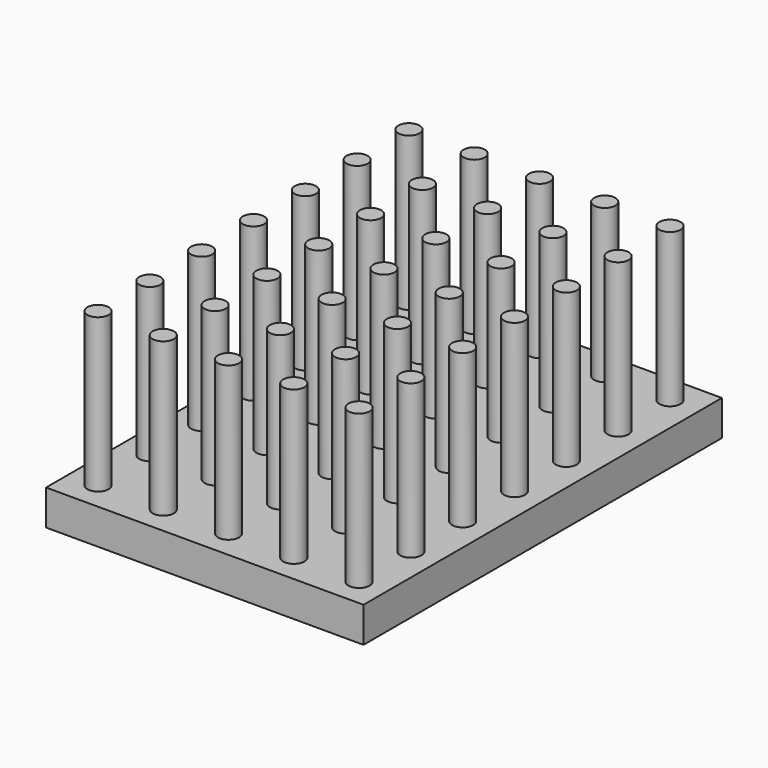
from build123d import *

# Parameters (mm, degrees)
F0_W     = 18
F0_H     = 25.4
F0_R     = 0.6
F1_DEPTH = 2
F2_DEPTH = 10.7


with BuildPart() as f1:
    # F0 (on Top) → F1 (new body)
    with BuildSketch(Plane.XY):
        Rectangle(F0_W, F0_H)
        with Locations((-7.335386, -11.099812)):
            Circle(F0_R, mode=Mode.SUBTRACT)
        with Locations((-7.356924, -7.399875)):
            Circle(F0_R, mode=Mode.SUBTRACT)
        with Locations((-3.635386, -11.099812)):
            Circle(F0_R, mode=Mode.SUBTRACT)
        with Locations((-3.656924, -7.399875)):
            Circle(F0_R, mode=Mode.SUBTRACT)
        with Locations((-7.378462, -3.699937)):
            Circle(F0_R, mode=Mode.SUBTRACT)
        with Locations((-7.4, 0)):
            Circle(F0_R, mode=Mode.SUBTRACT)
        with Locations((-3.678462, -3.699937)):
            Circle(F0_R, mode=Mode.SUBTRACT)
        with Locations((-3.7, 0)):
            Circle(F0_R, mode=Mode.SUBTRACT)
        with Locations((0.064614, -11.099812)):
            Circle(F0_R, mode=Mode.SUBTRACT)
        with Locations((3.764614, -11.099812)):
            Circle(F0_R, mode=Mode.SUBTRACT)
        with Locations((0.043076, -7.399875)):
            Circle(F0_R, mode=Mode.SUBTRACT)
        with Locations((3.743076, -7.399875)):
            Circle(F0_R, mode=Mode.SUBTRACT)
        with Locations((7.464614, -11.099812)):
            Circle(F0_R, mode=Mode.SUBTRACT)
        with Locations((7.443076, -7.399875)):
            Circle(F0_R, mode=Mode.SUBTRACT)
        with Locations((0.021538, -3.699937)):
            Circle(F0_R, mode=Mode.SUBTRACT)
        with Locations((3.721538, -3.699937)):
            Circle(F0_R, mode=Mode.SUBTRACT)
        Circle(F0_R, mode=Mode.SUBTRACT)
        with Locations((3.7, 0)):
            Circle(F0_R, mode=Mode.SUBTRACT)
        with Locations((7.421538, -3.699937)):
            Circle(F0_R, mode=Mode.SUBTRACT)
        with Locations((7.4, 0)):
            Circle(F0_R, mode=Mode.SUBTRACT)
        with Locations((-7.421538, 3.699937)):
            Circle(F0_R, mode=Mode.SUBTRACT)
        with Locations((-3.721538, 3.699937)):
            Circle(F0_R, mode=Mode.SUBTRACT)
        with Locations((-0.021538, 3.699937)):
            Circle(F0_R, mode=Mode.SUBTRACT)
        with Locations((-7.443076, 7.399875)):
            Circle(F0_R, mode=Mode.SUBTRACT)
        with Locations((-7.464614, 11.099812)):
            Circle(F0_R, mode=Mode.SUBTRACT)
        with Locations((-3.743076, 7.399875)):
            Circle(F0_R, mode=Mode.SUBTRACT)
        with Locations((-0.043076, 7.399875)):
            Circle(F0_R, mode=Mode.SUBTRACT)
        with Locations((-3.764614, 11.099812)):
            Circle(F0_R, mode=Mode.SUBTRACT)
        with Locations((-0.064614, 11.099812)):
            Circle(F0_R, mode=Mode.SUBTRACT)
        with Locations((3.678462, 3.699937)):
            Circle(F0_R, mode=Mode.SUBTRACT)
        with Locations((7.378462, 3.699937)):
            Circle(F0_R, mode=Mode.SUBTRACT)
        with Locations((3.656924, 7.399875)):
            Circle(F0_R, mode=Mode.SUBTRACT)
        with Locations((3.635386, 11.099812)):
            Circle(F0_R, mode=Mode.SUBTRACT)
        with Locations((7.356924, 7.399875)):
            Circle(F0_R, mode=Mode.SUBTRACT)
        with Locations((7.335386, 11.099812)):
            Circle(F0_R, mode=Mode.SUBTRACT)
    extrude(amount=F1_DEPTH)

    # F0 (on Top) → F2 (join)
    with BuildSketch(Plane.XY):
        with Locations((3.7, 0)):
            Circle(F0_R)
        with Locations((-0.064614, 11.099812)):
            Circle(F0_R)
        with Locations((7.443076, -7.399875)):
            Circle(F0_R)
        with Locations((-7.356924, -7.399875)):
            Circle(F0_R)
        with Locations((-3.656924, -7.399875)):
            Circle(F0_R)
        with Locations((7.464614, -11.099812)):
            Circle(F0_R)
        with Locations((-7.443076, 7.399875)):
            Circle(F0_R)
        with Locations((7.335386, 11.099812)):
            Circle(F0_R)
        with Locations((0.064614, -11.099812)):
            Circle(F0_R)
        with Locations((-3.764614, 11.099812)):
            Circle(F0_R)
        with Locations((-3.635386, -11.099812)):
            Circle(F0_R)
        with Locations((3.635386, 11.099812)):
            Circle(F0_R)
        Circle(F0_R)
        with Locations((0.043076, -7.399875)):
            Circle(F0_R)
        with Locations((7.356924, 7.399875)):
            Circle(F0_R)
        with Locations((-3.678462, -3.699937)):
            Circle(F0_R)
        with Locations((7.421538, -3.699937)):
            Circle(F0_R)
        with Locations((7.378462, 3.699937)):
            Circle(F0_R)
        with Locations((-7.4, 0)):
            Circle(F0_R)
        with Locations((-7.421538, 3.699937)):
            Circle(F0_R)
        with Locations((3.743076, -7.399875)):
            Circle(F0_R)
        with Locations((0.021538, -3.699937)):
            Circle(F0_R)
        with Locations((-0.021538, 3.699937)):
            Circle(F0_R)
        with Locations((-3.721538, 3.699937)):
            Circle(F0_R)
        with Locations((3.721538, -3.699937)):
            Circle(F0_R)
        with Locations((3.678462, 3.699937)):
            Circle(F0_R)
        with Locations((7.4, 0)):
            Circle(F0_R)
        with Locations((-7.378462, -3.699937)):
            Circle(F0_R)
        with Locations((-0.043076, 7.399875)):
            Circle(F0_R)
        with Locations((-7.464614, 11.099812)):
            Circle(F0_R)
        with Locations((3.656924, 7.399875)):
            Circle(F0_R)
        with Locations((-7.335386, -11.099812)):
            Circle(F0_R)
        with Locations((-3.7, 0)):
            Circle(F0_R)
        with Locations((-3.743076, 7.399875)):
            Circle(F0_R)
        with Locations((3.764614, -11.099812)):
            Circle(F0_R)
    extrude(amount=F2_DEPTH)


solid = f1.part
